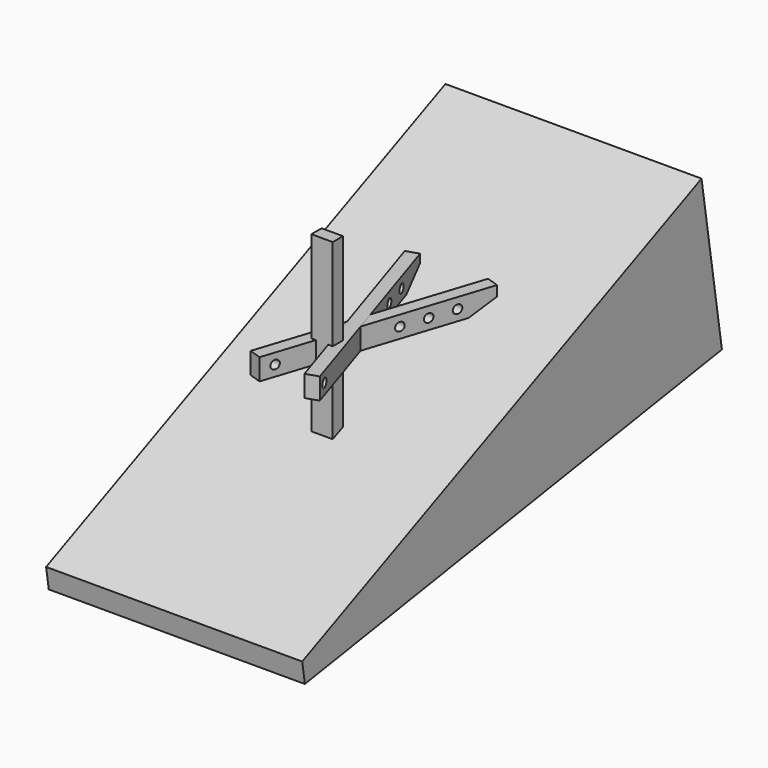
from build123d import *

# Parameters (mm, degrees)
F0_W          = 250
F0_H          = 150
F1_DEPTH      = 2000
F1_DEPTH_BACK = 600
F5_DEPTH      = 125
F6_DEPTH      = 125
F7_DEPTH      = 1500
F8_R          = 50
F9_DEPTH      = 1500.001
F9_DEPTH_BACK = 1500.001


with BuildPart() as f1:
    # F0 (on Top) → F1 (new body, two sides)
    with BuildSketch(Plane.XY) as f1_sk:
        Rectangle(F0_W, F0_H)
    extrude(amount=F1_DEPTH)
    extrude(f1_sk.sketch, amount=-F1_DEPTH_BACK)


with BuildPart() as f5:
    # F4 (on line) → F5 (new body, symmetric)
    with BuildSketch(Plane.XY.offset(800)):
        Polygon((-405.5158482545, -614.7322103396), (-262.8573708102, -661.0847594958), (0, 147.9070432719), (-78.8596668179, 390.6121415844), align=None)
        Polygon((-78.8596668179, 390.6121415844), (0, 147.9070432719), (78.8596668179, 390.6121415844), (0, 633.3172398969), align=None)
        Polygon((0, 633.3172398969), (78.8596668179, 390.6121415844), (540.5868145647, 1811.6621828716), (397.9283371204, 1858.0147320278), align=None)
    extrude(amount=F5_DEPTH, both=True)


with BuildPart() as f6:
    # F4 (on line) → F6 (new body, symmetric)
    with BuildSketch(Plane.XY.offset(800)):
        Polygon((78.8596668179, 390.6121415844), (0, 147.9070432719), (262.8573708102, -661.0847594958), (405.5158482545, -614.7322103396), align=None)
        Polygon((-540.5868145647, 1811.6621828716), (-78.8596668179, 390.6121415844), (0, 633.3172398969), (-397.9283371204, 1858.0147320278), align=None)
        Polygon((-78.8596668179, 390.6121415844), (0, 147.9070432719), (78.8596668179, 390.6121415844), (0, 633.3172398969), align=None)
    extrude(amount=F6_DEPTH, both=True)


with BuildPart() as f7:
    # F2 (on Right) → F7 (new body, symmetric)
    with BuildSketch(Plane.YZ):
        Polygon((1796.8294191234, 800), (-2240.6731085289, -997.6119423165), (-2201.3664910063, -1245.7841582363), (3904.4795133214, -278.7131561331), (3606.0470017618, 1605.5155657552), align=None)
    extrude(amount=F7_DEPTH, both=True)


with BuildPart() as f9_tool:
    # F8 (on Right) → F9 (new body, two sides)
    with BuildSketch(Plane.YZ) as f9_sk:
        with Locations((-500, 800)):
            Circle(F8_R)
        with Locations((800, 800)):
            Circle(F8_R)
        with Locations((1100, 800)):
            Circle(F8_R)
        with Locations((1400, 800)):
            Circle(F8_R)
    extrude(amount=-F9_DEPTH)
    extrude(f9_sk.sketch, amount=F9_DEPTH_BACK)


with BuildPart() as f5_1:
    add(f5.part)

    # F9: cut by f9_tool
    add(f9_tool.part, mode=Mode.SUBTRACT)


with BuildPart() as f6_1:
    add(f6.part)

    # F9: cut by f9_tool
    add(f9_tool.part, mode=Mode.SUBTRACT)


solid = Compound([f1.part, f7.part, f5_1.part, f6_1.part])
